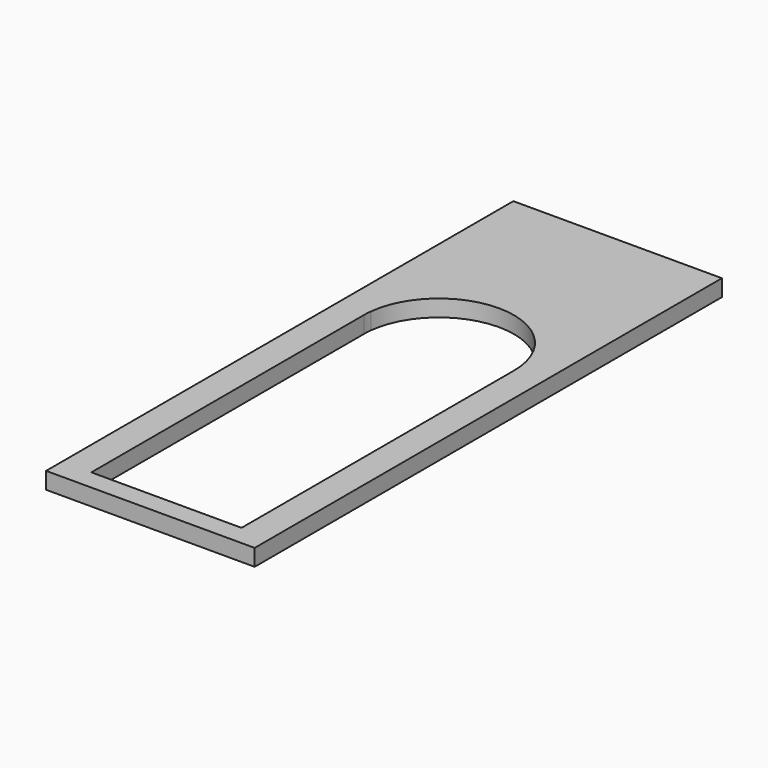
from build123d import *

# Parameters (mm, degrees)
F0_W     = 25
F0_H     = 70
F1_DEPTH = 2


with BuildPart() as f1:
    # F0 (on Top) → F1 (new body)
    with BuildSketch(Plane.XY):
        Rectangle(F0_W, F0_H)
        with BuildLine():
            Line((9, -32.591704), (-9, -32.591704))
            Line((-9, -32.591704), (-9, 8.219976))
            ThreePointArc((-9, 8.219976), (-8.985863, 8.724219), (-8.943498, 9.226878))
            ThreePointArc((-8.943498, 9.226878), (0.504243, 17.20584), (9, 8.219976))
            Line((9, 8.219976), (9, -32.591704))
        make_face(mode=Mode.SUBTRACT)
        Rectangle(F0_W, F0_H)
        with BuildLine():
            Line((9, -32.591704), (-9, -32.591704))
            Line((-9, -32.591704), (-9, 8.219976))
            ThreePointArc((-9, 8.219976), (-8.985863, 8.724219), (-8.943498, 9.226878))
            ThreePointArc((-8.943498, 9.226878), (0.504243, 17.20584), (9, 8.219976))
            Line((9, 8.219976), (9, -32.591704))
        make_face(mode=Mode.SUBTRACT)
    extrude(amount=F1_DEPTH)


solid = f1.part
